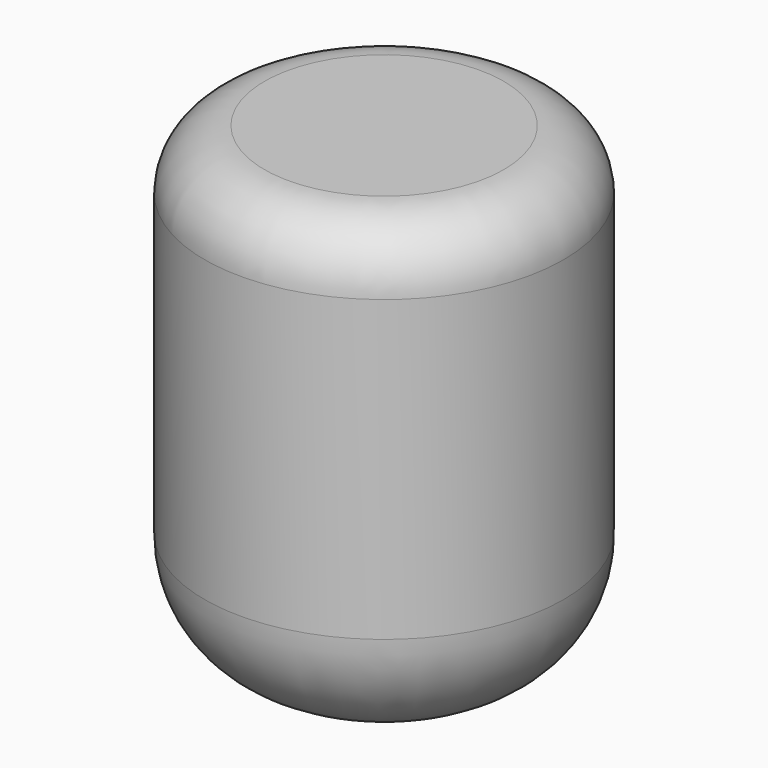
from build123d import *

# Parameters (mm, degrees)
CYLINDER034_R     = 1.5
CYLINDER034_DEPTH = 4
FILLET019_1_R     = 1
FILLET019_2_R     = 0.5


with BuildPart() as part:
    # Cylinder034 → Cylinder034 (new body)
    with BuildSketch(Plane(origin=(-5.4, -47.3, 0), x_dir=(1, 0, 0), z_dir=(0, 0, 1))):
        Circle(CYLINDER034_R)
    extrude(amount=CYLINDER034_DEPTH)

    # Fillet019 1
    fillet019_1_edges = [part.edges().sort_by_distance(p)[0] for p in [
        (-6.9, -47.3, 0),
    ]]
    fillet(fillet019_1_edges, radius=FILLET019_1_R)

    # Fillet019 2
    fillet019_2_edges = [part.edges().sort_by_distance(p)[0] for p in [
        (-6.9, -47.3, 4),
    ]]
    fillet(fillet019_2_edges, radius=FILLET019_2_R)


solid = part.part
